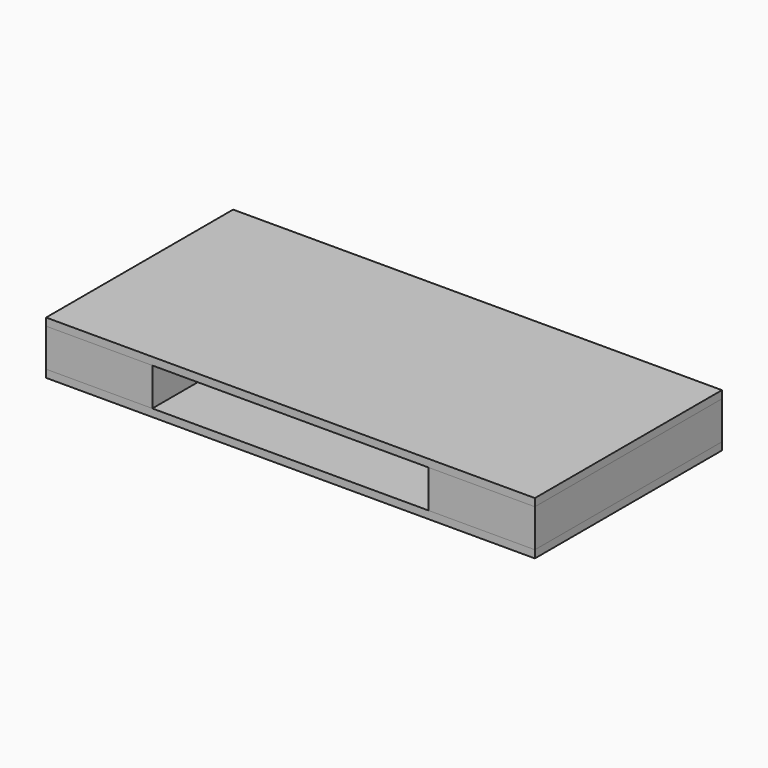
from build123d import *

# Parameters (mm, degrees)
F0_W     = 1168.4
F0_H     = 558.8
F1_DEPTH = 18.25625
F2_W     = 18.25625
F2_H     = 286.54375
F3_DEPTH = 90.4875
F4_W     = 1131.8875
F4_H     = 18.25625
F5_DEPTH = 87.63
F6_W     = 1168.4
F6_H     = 558.8
F7_DEPTH = 18.25625


with BuildPart() as f1:
    # F0 (on Top) → F1 (new body)
    with BuildSketch(Plane.XY):
        Rectangle(F0_W, F0_H)
    extrude(amount=F1_DEPTH)


with BuildPart() as f3:
    # F2 (on face) → F3 (new body)
    with BuildSketch(Plane.XY.offset(18.25625)):
        Polygon((565.94375, 43.65625), (-565.94375, 43.65625), (-565.94375, 25.4), (-348.45625, 25.4), (-330.2, 25.4), (330.2, 25.4), (348.45625, 25.4), (565.94375, 25.4), align=None)
        Polygon((-565.94375, 25.4), (-565.94375, 43.65625), (-565.94375, 279.4), (-584.2, 279.4), (-584.2, -261.14375), (-565.94375, -261.14375), align=None)
        Polygon((565.94375, 279.4), (565.94375, 43.65625), (565.94375, 25.4), (565.94375, -261.14375), (584.2, -261.14375), (584.2, 279.4), align=None)
        with Locations((-339.328125, -117.871875)):
            Rectangle(F2_W, F2_H)
        Polygon((-348.45625, -261.14375), (-565.94375, -261.14375), (-584.2, -261.14375), (-584.2, -279.4), (-330.2, -279.4), (-330.2, -261.14375), align=None)
        with Locations((339.328125, -117.871875)):
            Rectangle(F2_W, F2_H)
        Polygon((584.2, -261.14375), (565.94375, -261.14375), (348.45625, -261.14375), (330.2, -261.14375), (330.2, -279.4), (584.2, -279.4), align=None)
    extrude(amount=F3_DEPTH)


with BuildPart() as f5:
    # F4 (on face) → F5 (new body)
    with BuildSketch(Plane.XY.offset(18.25625)):
        with Locations((0, 270.271875)):
            Rectangle(F4_W, F4_H)
    extrude(amount=F5_DEPTH)


with BuildPart() as f7:
    # F6 (on face) → F7 (new body)
    with BuildSketch(Plane.XY.offset(108.74375)):
        Rectangle(F6_W, F6_H)
    extrude(amount=F7_DEPTH)


solid = Compound([f1.part, f3.part, f5.part, f7.part])
